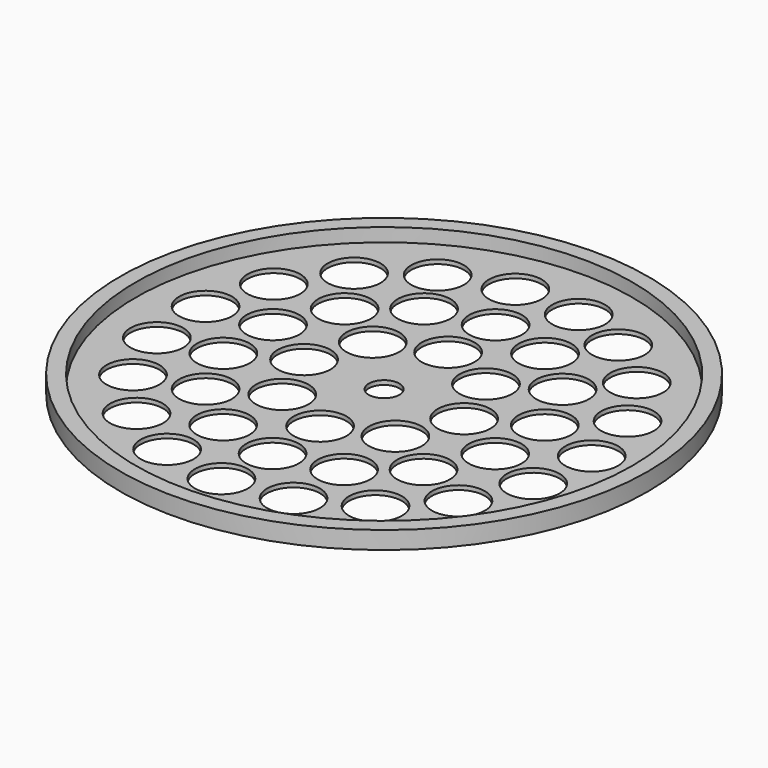
from build123d import *

# Parameters (mm, degrees)
F0_R     = 89.408
F0_R_2   = 9.525
F0_R_3   = 5.5
F1_DEPTH = 1.51892
F0_R_4   = 95
F2_DEPTH = 6.35


with BuildPart() as f1:
    # F0 (on Top) → F1 (new body)
    with BuildSketch(Plane.XY):
        Circle(F0_R)
        with Locations((-24.7515, -66.673965)):
            Circle(F0_R_2, mode=Mode.SUBTRACT)
        with Locations((-45.136415, -54.961427)):
            Circle(F0_R_2, mode=Mode.SUBTRACT)
        with Locations((-1.661818, -71.100582)):
            Circle(F0_R_2, mode=Mode.SUBTRACT)
        with Locations((-60.588964, -37.242876)):
            Circle(F0_R_2, mode=Mode.SUBTRACT)
        with Locations((-69.420541, -15.454541)):
            Circle(F0_R_2, mode=Mode.SUBTRACT)
        with Locations((-48.906072, -11.167962)):
            Circle(F0_R_2, mode=Mode.SUBTRACT)
        with Locations((-39.217583, -31.281119)):
            Circle(F0_R_2, mode=Mode.SUBTRACT)
        with Locations((-21.761934, -45.198954)):
            Circle(F0_R_2, mode=Mode.SUBTRACT)
        with Locations((-20.364587, -20.364587)):
            Circle(F0_R_2, mode=Mode.SUBTRACT)
        with Locations((21.609461, -67.75755)):
            Circle(F0_R_2, mode=Mode.SUBTRACT)
        with Locations((0.003733, -50.165)):
            Circle(F0_R_2, mode=Mode.SUBTRACT)
        with Locations((42.519327, -57.010186)):
            Circle(F0_R_2, mode=Mode.SUBTRACT)
        with Locations((21.768661, -45.195715)):
            Circle(F0_R_2, mode=Mode.SUBTRACT)
        with Locations((0, -28.799874)):
            Circle(F0_R_2, mode=Mode.SUBTRACT)
        with Locations((39.222239, -31.275281)):
            Circle(F0_R_2, mode=Mode.SUBTRACT)
        with Locations((20.364587, -20.364587)):
            Circle(F0_R_2, mode=Mode.SUBTRACT)
        with Locations((58.782813, -40.032927)):
            Circle(F0_R_2, mode=Mode.SUBTRACT)
        with Locations((68.622699, -18.680996)):
            Circle(F0_R_2, mode=Mode.SUBTRACT)
        with Locations((48.907733, -11.160683)):
            Circle(F0_R_2, mode=Mode.SUBTRACT)
        with Locations((-70.66606, 8.022618)):
            Circle(F0_R_2, mode=Mode.SUBTRACT)
        with Locations((-48.908564, 11.157043)):
            Circle(F0_R_2, mode=Mode.SUBTRACT)
        with Locations((-64.189413, 30.623091)):
            Circle(F0_R_2, mode=Mode.SUBTRACT)
        with Locations((-28.799874, 0)):
            Circle(F0_R_2, mode=Mode.SUBTRACT)
        with Locations((-20.364587, 20.364587)):
            Circle(F0_R_2, mode=Mode.SUBTRACT)
        with Locations((-39.224566, 31.272362)):
            Circle(F0_R_2, mode=Mode.SUBTRACT)
        with Locations((-21.772024, 45.194095)):
            Circle(F0_R_2, mode=Mode.SUBTRACT)
        with Locations((-50.698348, 49.877168)):
            Circle(F0_R_2, mode=Mode.SUBTRACT)
        with Locations((-31.667127, 63.680825)):
            Circle(F0_R_2, mode=Mode.SUBTRACT)
        with Locations((-9.175422, 70.525641)):
            Circle(F0_R_2, mode=Mode.SUBTRACT)
        Circle(F0_R_3, mode=Mode.SUBTRACT)
        with Locations((20.364587, 20.364587)):
            Circle(F0_R_2, mode=Mode.SUBTRACT)
        with Locations((28.799874, 0)):
            Circle(F0_R_2, mode=Mode.SUBTRACT)
        with Locations((0, 28.799874)):
            Circle(F0_R_2, mode=Mode.SUBTRACT)
        with Locations((21.765297, 45.197335)):
            Circle(F0_R_2, mode=Mode.SUBTRACT)
        with Locations((39.219911, 31.2782)):
            Circle(F0_R_2, mode=Mode.SUBTRACT)
        with Locations((48.906903, 11.164323)):
            Circle(F0_R_2, mode=Mode.SUBTRACT)
        with Locations((70.963711, 4.712336)):
            Circle(F0_R_2, mode=Mode.SUBTRACT)
        with Locations((65.550031, 27.590719)):
            Circle(F0_R_2, mode=Mode.SUBTRACT)
        with Locations((52.97325, 47.454074)):
            Circle(F0_R_2, mode=Mode.SUBTRACT)
        with Locations((0, 50.165)):
            Circle(F0_R_2, mode=Mode.SUBTRACT)
        with Locations((14.318945, 69.663636)):
            Circle(F0_R_2, mode=Mode.SUBTRACT)
        with Locations((34.607718, 62.131797)):
            Circle(F0_R_2, mode=Mode.SUBTRACT)
    extrude(amount=F1_DEPTH)

    # F0 (on Top) → F2 (join)
    with BuildSketch(Plane.XY):
        Circle(F0_R_4)
        Circle(F0_R, mode=Mode.SUBTRACT)
    extrude(amount=F2_DEPTH)


solid = f1.part
